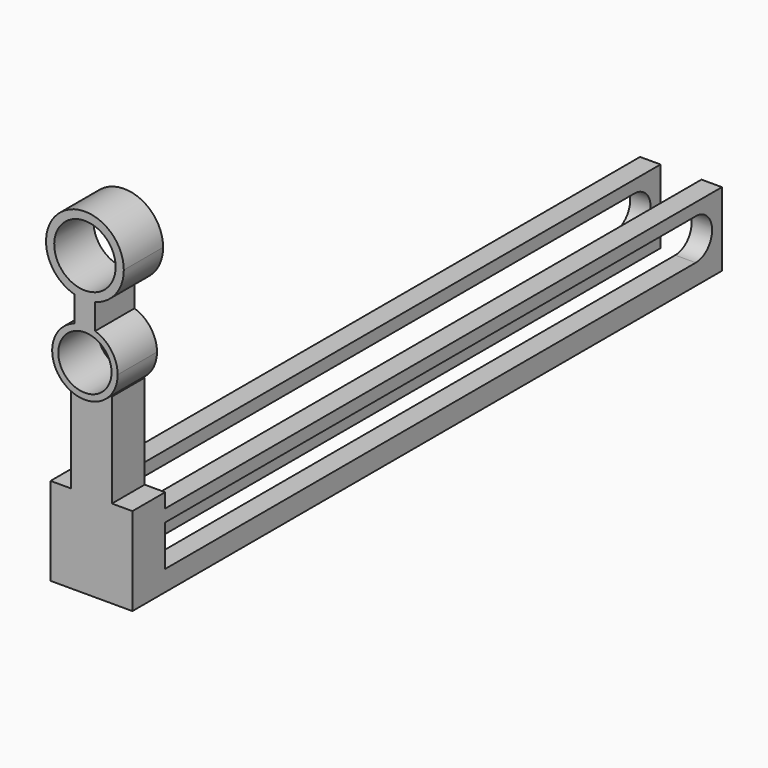
from build123d import *

# Parameters (mm, degrees)
F1_DEPTH = 12
F3_DEPTH = 10
F4_W     = 5
F4_H     = 5
F4_H_2   = 3
F5_DEPTH = 170
F6_W     = 5
F6_H     = 8
F7_DEPTH = 12.7
F9_DEPTH = 25


with BuildPart() as f1:
    # F0 (on Front) → F1 (new body)
    with BuildSketch(Plane.XZ):
        with BuildLine():
            Line((0, 8), (0, 6.5))
            ThreePointArc((0, 6.5), (1.2747548784, 6.373774392), (2.5, 6))
            Line((2.5, 6), (2.5, 7.5993420768))
            ThreePointArc((2.5, 7.5993420768), (1.2659509046, 7.8992004853), (0, 8))
        make_face()
        with BuildLine():
            ThreePointArc((-2.5, 6), (-1.2747548784, 6.373774392), (0, 6.5))
            Line((0, 6.5), (0, 8))
            ThreePointArc((0, 8), (-1.2659509046, 7.8992004853), (-2.5, 7.5993420768))
            Line((-2.5, 7.5993420768), (-2.5, 6))
        make_face()
        with BuildLine():
            Line((2.5, 7.5993420768), (2.5, 6))
            ThreePointArc((2.5, 6), (5.4083269132, 3.6055512755), (6.5, 0))
            ThreePointArc((6.5, 0), (-3.6055512755, -5.4083269132), (-2.5, 6))
            Line((-2.5, 6), (-2.5, 7.5993420768))
            ThreePointArc((-2.5, 7.5993420768), (-4.6904157598, -6.4807406984), (8, 0))
            ThreePointArc((8, 0), (6.4807406984, 4.6904157598), (2.5, 7.5993420768))
        make_face()
        with BuildLine():
            ThreePointArc((-2.5, 13.8348486101), (-1.2611625184, 13.5840842664), (0, 13.5))
            Line((0, 13.5), (0, 14.832704328))
            Line((0, 14.832704328), (-2.5, 14.832704328))
            Line((-2.5, 14.832704328), (-2.5, 13.8348486101))
        make_face()
        with BuildLine():
            Line((0, 14.832704328), (0, 13.5))
            ThreePointArc((0, 13.5), (1.2611625184, 13.5840842664), (2.5, 13.8348486101))
            Line((2.5, 13.8348486101), (2.5, 14.832704328))
            Line((2.5, 14.832704328), (0, 14.832704328))
        make_face()
        with BuildLine():
            Line((-2.5, 14.832704328), (0, 14.832704328))
            Line((0, 14.832704328), (2.5, 14.832704328))
            Line((2.5, 14.832704328), (2.5, 13.8348486101))
            ThreePointArc((2.5, 13.8348486101), (7.5498344353, 17.2337187027), (9.5, 23))
            ThreePointArc((9.5, 23), (-5.7662812973, 30.5498344353), (-2.5, 13.8348486101))
            Line((-2.5, 13.8348486101), (-2.5, 14.832704328))
        make_face()
        with BuildLine():
            ThreePointArc((7.5, 23), (5.3033008589, 17.6966991411), (0, 15.5))
            ThreePointArc((0, 15.5), (-5.3033008589, 28.3033008589), (7.5, 23))
        make_face(mode=Mode.SUBTRACT)
        with BuildLine():
            Line((0, 13.5), (0, 8))
            ThreePointArc((0, 8), (1.2659509046, 7.8992004853), (2.5, 7.5993420768))
            Line((2.5, 7.5993420768), (2.5, 13.8348486101))
            ThreePointArc((2.5, 13.8348486101), (1.2611625184, 13.5840842664), (0, 13.5))
        make_face()
        with BuildLine():
            ThreePointArc((-2.5, 7.5993420768), (-1.2659509046, 7.8992004853), (0, 8))
            Line((0, 8), (0, 13.5))
            ThreePointArc((0, 13.5), (-1.2611625184, 13.5840842664), (-2.5, 13.8348486101))
            Line((-2.5, 13.8348486101), (-2.5, 7.5993420768))
        make_face()
    extrude(amount=F1_DEPTH)

    # F2 (on Front) → F3 (join)
    with BuildSketch(Plane.XZ):
        Polygon((5, -6.5), (0, -6.5), (-5, -6.5), (-5, -29.5), (-10, -29.5), (-10, -51), (10, -51), (10, -29.5), (5, -29.5), align=None)
    extrude(amount=F3_DEPTH)

    # F4 (on Front) → F5 (join)
    with BuildSketch(Plane.XZ):
        with Locations((7.5, -48.5)):
            Rectangle(F4_W, F4_H)
        with Locations((7.5, -34.4996317649)):
            Rectangle(F4_W, F4_H_2)
        with Locations((-7.5, -34.4996317649)):
            Rectangle(F4_W, F4_H_2)
        Polygon((-5, -46), (-5, -45.9992635297), (-10, -45.9992635297), (-10, -51), (-5, -51), align=None)
    extrude(amount=-F5_DEPTH)

    # F6 (on face) → F7 (join)
    with BuildSketch(Plane(origin=(0, 0, -35.9996317649), x_dir=(1, 0, 0), z_dir=(0, 0, -1))):
        with Locations((-7.5, -166)):
            Rectangle(F6_W, F6_H)
        with Locations((7.5, -166)):
            Rectangle(F6_W, F6_H)
    extrude(amount=F7_DEPTH)

    # F8 (on face) → F9 (cut)
    with BuildSketch(Plane(origin=(-10, 0, 0), x_dir=(0, -1, 0), z_dir=(-1, 0, 0))):
        with BuildLine():
            Line((-162, -35.9996317649), (-161.9570914715, -35.9996317649))
            ThreePointArc((-161.9570914715, -35.9996317649), (-167, -40.9994476473), (-161.9570914715, -45.9992635297))
            Line((-161.9570914715, -45.9992635297), (-162, -45.9992635297))
            Line((-162, -45.9992635297), (-162, -35.9996317649))
        make_face()
        with BuildLine():
            ThreePointArc((-161.9570914715, -45.9992635297), (-158.4493280465, -44.51977841), (-157, -40.9994476473))
            ThreePointArc((-157, -40.9994476473), (-158.4493280465, -37.4791168846), (-161.9570914715, -35.9996317649))
            Line((-161.9570914715, -35.9996317649), (-162, -35.9996317649))
            Line((-162, -35.9996317649), (-162, -45.9992635297))
            Line((-162, -45.9992635297), (-161.9570914715, -45.9992635297))
        make_face()
    extrude(amount=-F9_DEPTH, mode=Mode.SUBTRACT)


solid = f1.part
